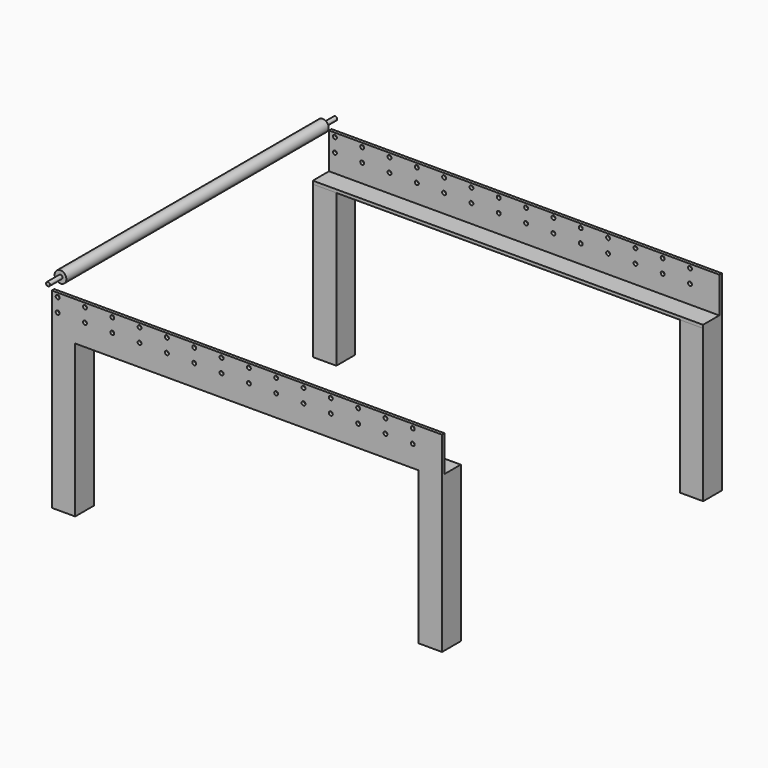
from build123d import *

# Parameters (mm, degrees)
F0_R      = 3.175
F1_DEPTH  = 292.1
F2_R      = 9.525
F3_DEPTH  = 266.7
F4_W      = 5.08
F4_H      = 58.42
F4_H_2    = 5.08
F4_W_2    = 33.02
F5_DEPTH  = 635
F7_DEPTH  = 576.581
F9_DEPTH  = 576.581
F10_W     = 38.1
F10_H     = 38.1
F11_DEPTH = 247.818


with BuildPart() as f1:
    # F0 (on Front) → F1 (new body, symmetric)
    with BuildSketch(Plane.XZ):
        Circle(F0_R)
    extrude(amount=F1_DEPTH, both=True)

    # F2 (on Front) → F3 (join, symmetric)
    with BuildSketch(Plane.XZ):
        Circle(F2_R)
    extrude(amount=F3_DEPTH, both=True)

    # F8 (on face) → F9 (cut, through all)
    with BuildSketch(Plane(origin=(0, 284.48, 0), x_dir=(-1, 0, 0), z_dir=(0, 1, 0))):
        with BuildLine():
            ThreePointArc((-584.2, -40.8131531549), (-587.375, -37.6381531549), (-590.55, -40.8131531549))
            Line((-590.55, -40.8131531549), (-584.2, -40.8131531549))
        make_face()
        with BuildLine():
            ThreePointArc((-6.35, -40.8131531549), (-9.525, -37.6381531549), (-12.7, -40.8131531549))
            Line((-12.7, -40.8131531549), (-6.35, -40.8131531549))
        make_face()
        with BuildLine():
            Line((-6.35, -40.8131531549), (-12.7, -40.8131531549))
            ThreePointArc((-12.7, -40.8131531549), (-9.525, -43.9881531549), (-6.35, -40.8131531549))
        make_face()
        with BuildLine():
            ThreePointArc((-50.8, -40.8131531549), (-53.975, -37.6381531549), (-57.15, -40.8131531549))
            Line((-57.15, -40.8131531549), (-50.8, -40.8131531549))
        make_face()
        with BuildLine():
            Line((-50.8, -40.8131531549), (-57.15, -40.8131531549))
            ThreePointArc((-57.15, -40.8131531549), (-53.975, -43.9881531549), (-50.8, -40.8131531549))
        make_face()
        with BuildLine():
            ThreePointArc((-95.25, -40.8131531549), (-98.425, -37.6381531549), (-101.6, -40.8131531549))
            Line((-101.6, -40.8131531549), (-95.25, -40.8131531549))
        make_face()
        with BuildLine():
            Line((-95.25, -40.8131531549), (-101.6, -40.8131531549))
            ThreePointArc((-101.6, -40.8131531549), (-98.425, -43.9881531549), (-95.25, -40.8131531549))
        make_face()
        with BuildLine():
            ThreePointArc((-139.7, -40.8131531549), (-142.875, -37.6381531549), (-146.05, -40.8131531549))
            Line((-146.05, -40.8131531549), (-139.7, -40.8131531549))
        make_face()
        with BuildLine():
            Line((-139.7, -40.8131531549), (-146.05, -40.8131531549))
            ThreePointArc((-146.05, -40.8131531549), (-142.875, -43.9881531549), (-139.7, -40.8131531549))
        make_face()
        with BuildLine():
            ThreePointArc((-184.15, -40.8131531549), (-187.325, -37.6381531549), (-190.5, -40.8131531549))
            Line((-190.5, -40.8131531549), (-184.15, -40.8131531549))
        make_face()
        with BuildLine():
            Line((-184.15, -40.8131531549), (-190.5, -40.8131531549))
            ThreePointArc((-190.5, -40.8131531549), (-187.325, -43.9881531549), (-184.15, -40.8131531549))
        make_face()
        with BuildLine():
            ThreePointArc((-228.6, -40.8131531549), (-231.775, -37.6381531549), (-234.95, -40.8131531549))
            Line((-234.95, -40.8131531549), (-228.6, -40.8131531549))
        make_face()
        with BuildLine():
            Line((-228.6, -40.8131531549), (-234.95, -40.8131531549))
            ThreePointArc((-234.95, -40.8131531549), (-231.775, -43.9881531549), (-228.6, -40.8131531549))
        make_face()
        with BuildLine():
            ThreePointArc((-273.05, -40.8131531549), (-276.225, -37.6381531549), (-279.4, -40.8131531549))
            Line((-279.4, -40.8131531549), (-273.05, -40.8131531549))
        make_face()
        with BuildLine():
            Line((-273.05, -40.8131531549), (-279.4, -40.8131531549))
            ThreePointArc((-279.4, -40.8131531549), (-276.225, -43.9881531549), (-273.05, -40.8131531549))
        make_face()
        with BuildLine():
            ThreePointArc((-317.5, -40.8131531549), (-320.675, -37.6381531549), (-323.85, -40.8131531549))
            Line((-323.85, -40.8131531549), (-317.5, -40.8131531549))
        make_face()
        with BuildLine():
            Line((-317.5, -40.8131531549), (-323.85, -40.8131531549))
            ThreePointArc((-323.85, -40.8131531549), (-320.675, -43.9881531549), (-317.5, -40.8131531549))
        make_face()
        with BuildLine():
            ThreePointArc((-361.95, -40.8131531549), (-365.125, -37.6381531549), (-368.3, -40.8131531549))
            Line((-368.3, -40.8131531549), (-361.95, -40.8131531549))
        make_face()
        with BuildLine():
            Line((-361.95, -40.8131531549), (-368.3, -40.8131531549))
            ThreePointArc((-368.3, -40.8131531549), (-365.125, -43.9881531549), (-361.95, -40.8131531549))
        make_face()
        with BuildLine():
            ThreePointArc((-406.4, -40.8131531549), (-409.575, -37.6381531549), (-412.75, -40.8131531549))
            Line((-412.75, -40.8131531549), (-406.4, -40.8131531549))
        make_face()
        with BuildLine():
            Line((-406.4, -40.8131531549), (-412.75, -40.8131531549))
            ThreePointArc((-412.75, -40.8131531549), (-409.575, -43.9881531549), (-406.4, -40.8131531549))
        make_face()
        with BuildLine():
            ThreePointArc((-450.85, -40.8131531549), (-454.025, -37.6381531549), (-457.2, -40.8131531549))
            Line((-457.2, -40.8131531549), (-450.85, -40.8131531549))
        make_face()
        with BuildLine():
            Line((-450.85, -40.8131531549), (-457.2, -40.8131531549))
            ThreePointArc((-457.2, -40.8131531549), (-454.025, -43.9881531549), (-450.85, -40.8131531549))
        make_face()
        with BuildLine():
            ThreePointArc((-495.3, -40.8131531549), (-498.475, -37.6381531549), (-501.65, -40.8131531549))
            Line((-501.65, -40.8131531549), (-495.3, -40.8131531549))
        make_face()
        with BuildLine():
            Line((-495.3, -40.8131531549), (-501.65, -40.8131531549))
            ThreePointArc((-501.65, -40.8131531549), (-498.475, -43.9881531549), (-495.3, -40.8131531549))
        make_face()
        with BuildLine():
            ThreePointArc((-539.75, -40.8131531549), (-542.925, -37.6381531549), (-546.1, -40.8131531549))
            Line((-546.1, -40.8131531549), (-539.75, -40.8131531549))
        make_face()
        with BuildLine():
            Line((-539.75, -40.8131531549), (-546.1, -40.8131531549))
            ThreePointArc((-546.1, -40.8131531549), (-542.925, -43.9881531549), (-539.75, -40.8131531549))
        make_face()
        with BuildLine():
            Line((-584.2, -40.8131531549), (-590.55, -40.8131531549))
            ThreePointArc((-590.55, -40.8131531549), (-587.375, -43.9881531549), (-584.2, -40.8131531549))
        make_face()
        with BuildLine():
            ThreePointArc((-584.2, -18.5881531549), (-587.375, -15.4131531549), (-590.55, -18.5881531549))
            Line((-590.55, -18.5881531549), (-584.2, -18.5881531549))
        make_face()
        with BuildLine():
            ThreePointArc((-6.35, -18.5881531549), (-9.525, -15.4131531549), (-12.7, -18.5881531549))
            Line((-12.7, -18.5881531549), (-6.35, -18.5881531549))
        make_face()
        with BuildLine():
            Line((-6.35, -18.5881531549), (-12.7, -18.5881531549))
            ThreePointArc((-12.7, -18.5881531549), (-9.525, -21.7631531549), (-6.35, -18.5881531549))
        make_face()
        with BuildLine():
            ThreePointArc((-50.8, -18.5881531549), (-53.975, -15.4131531549), (-57.15, -18.5881531549))
            Line((-57.15, -18.5881531549), (-50.8, -18.5881531549))
        make_face()
        with BuildLine():
            Line((-50.8, -18.5881531549), (-57.15, -18.5881531549))
            ThreePointArc((-57.15, -18.5881531549), (-53.975, -21.7631531549), (-50.8, -18.5881531549))
        make_face()
        with BuildLine():
            ThreePointArc((-95.25, -18.5881531549), (-98.425, -15.4131531549), (-101.6, -18.5881531549))
            Line((-101.6, -18.5881531549), (-95.25, -18.5881531549))
        make_face()
        with BuildLine():
            Line((-95.25, -18.5881531549), (-101.6, -18.5881531549))
            ThreePointArc((-101.6, -18.5881531549), (-98.425, -21.7631531549), (-95.25, -18.5881531549))
        make_face()
        with BuildLine():
            ThreePointArc((-139.7, -18.5881531549), (-142.875, -15.4131531549), (-146.05, -18.5881531549))
            Line((-146.05, -18.5881531549), (-139.7, -18.5881531549))
        make_face()
        with BuildLine():
            Line((-139.7, -18.5881531549), (-146.05, -18.5881531549))
            ThreePointArc((-146.05, -18.5881531549), (-142.875, -21.7631531549), (-139.7, -18.5881531549))
        make_face()
        with BuildLine():
            ThreePointArc((-184.15, -18.5881531549), (-187.325, -15.4131531549), (-190.5, -18.5881531549))
            Line((-190.5, -18.5881531549), (-184.15, -18.5881531549))
        make_face()
        with BuildLine():
            Line((-184.15, -18.5881531549), (-190.5, -18.5881531549))
            ThreePointArc((-190.5, -18.5881531549), (-187.325, -21.7631531549), (-184.15, -18.5881531549))
        make_face()
        with BuildLine():
            ThreePointArc((-228.6, -18.5881531549), (-231.775, -15.4131531549), (-234.95, -18.5881531549))
            Line((-234.95, -18.5881531549), (-228.6, -18.5881531549))
        make_face()
        with BuildLine():
            Line((-228.6, -18.5881531549), (-234.95, -18.5881531549))
            ThreePointArc((-234.95, -18.5881531549), (-231.775, -21.7631531549), (-228.6, -18.5881531549))
        make_face()
        with BuildLine():
            ThreePointArc((-273.05, -18.5881531549), (-276.225, -15.4131531549), (-279.4, -18.5881531549))
            Line((-279.4, -18.5881531549), (-273.05, -18.5881531549))
        make_face()
        with BuildLine():
            Line((-273.05, -18.5881531549), (-279.4, -18.5881531549))
            ThreePointArc((-279.4, -18.5881531549), (-276.225, -21.7631531549), (-273.05, -18.5881531549))
        make_face()
        with BuildLine():
            ThreePointArc((-317.5, -18.5881531549), (-320.675, -15.4131531549), (-323.85, -18.5881531549))
            Line((-323.85, -18.5881531549), (-317.5, -18.5881531549))
        make_face()
        with BuildLine():
            Line((-317.5, -18.5881531549), (-323.85, -18.5881531549))
            ThreePointArc((-323.85, -18.5881531549), (-320.675, -21.7631531549), (-317.5, -18.5881531549))
        make_face()
        with BuildLine():
            ThreePointArc((-361.95, -18.5881531549), (-365.125, -15.4131531549), (-368.3, -18.5881531549))
            Line((-368.3, -18.5881531549), (-361.95, -18.5881531549))
        make_face()
        with BuildLine():
            Line((-361.95, -18.5881531549), (-368.3, -18.5881531549))
            ThreePointArc((-368.3, -18.5881531549), (-365.125, -21.7631531549), (-361.95, -18.5881531549))
        make_face()
        with BuildLine():
            ThreePointArc((-406.4, -18.5881531549), (-409.575, -15.4131531549), (-412.75, -18.5881531549))
            Line((-412.75, -18.5881531549), (-406.4, -18.5881531549))
        make_face()
        with BuildLine():
            Line((-406.4, -18.5881531549), (-412.75, -18.5881531549))
            ThreePointArc((-412.75, -18.5881531549), (-409.575, -21.7631531549), (-406.4, -18.5881531549))
        make_face()
        with BuildLine():
            ThreePointArc((-450.85, -18.5881531549), (-454.025, -15.4131531549), (-457.2, -18.5881531549))
            Line((-457.2, -18.5881531549), (-450.85, -18.5881531549))
        make_face()
        with BuildLine():
            Line((-450.85, -18.5881531549), (-457.2, -18.5881531549))
            ThreePointArc((-457.2, -18.5881531549), (-454.025, -21.7631531549), (-450.85, -18.5881531549))
        make_face()
        with BuildLine():
            ThreePointArc((-495.3, -18.5881531549), (-498.475, -15.4131531549), (-501.65, -18.5881531549))
            Line((-501.65, -18.5881531549), (-495.3, -18.5881531549))
        make_face()
        with BuildLine():
            Line((-495.3, -18.5881531549), (-501.65, -18.5881531549))
            ThreePointArc((-501.65, -18.5881531549), (-498.475, -21.7631531549), (-495.3, -18.5881531549))
        make_face()
        with BuildLine():
            ThreePointArc((-539.75, -18.5881531549), (-542.925, -15.4131531549), (-546.1, -18.5881531549))
            Line((-546.1, -18.5881531549), (-539.75, -18.5881531549))
        make_face()
        with BuildLine():
            Line((-539.75, -18.5881531549), (-546.1, -18.5881531549))
            ThreePointArc((-546.1, -18.5881531549), (-542.925, -21.7631531549), (-539.75, -18.5881531549))
        make_face()
        with BuildLine():
            Line((-584.2, -18.5881531549), (-590.55, -18.5881531549))
            ThreePointArc((-590.55, -18.5881531549), (-587.375, -21.7631531549), (-584.2, -18.5881531549))
        make_face()
    extrude(amount=-F9_DEPTH, mode=Mode.SUBTRACT)


with BuildPart() as f5:
    # F4 (on Right) → F5 (new body)
    with BuildSketch(Plane.YZ):
        with Locations((-281.94, -41.4481531549)):
            Rectangle(F4_W, F4_H)
        with Locations((-281.94, -73.1981531549)):
            Rectangle(F4_W, F4_H_2)
        with Locations((-262.89, -73.1981531549)):
            Rectangle(F4_W_2, F4_H_2)
    extrude(amount=F5_DEPTH)


with BuildPart() as f5b:
    # F4 (on Right) → F5, piece 2 (new body)
    with BuildSketch(Plane.YZ):
        with Locations((281.94, -41.4481531549)):
            Rectangle(F4_W, F4_H)
        with Locations((281.94, -73.1981531549)):
            Rectangle(F4_W, F4_H_2)
        with Locations((262.89, -73.1981531549)):
            Rectangle(F4_W_2, F4_H_2)
    extrude(amount=F5_DEPTH)


with BuildPart() as f7_tool:
    # F6 (on face) → F7 (new body, through all)
    with BuildSketch(Plane.XZ.offset(284.48)):
        with BuildLine():
            ThreePointArc((12.7, -40.8131531549), (9.525, -37.6381531549), (6.35, -40.8131531549))
            Line((6.35, -40.8131531549), (12.7, -40.8131531549))
        make_face()
        with BuildLine():
            Line((12.7, -40.8131531549), (6.35, -40.8131531549))
            ThreePointArc((6.35, -40.8131531549), (9.525, -43.9881531549), (12.7, -40.8131531549))
        make_face()
        with BuildLine():
            ThreePointArc((57.15, -40.8131531549), (53.975, -37.6381531549), (50.8, -40.8131531549))
            Line((50.8, -40.8131531549), (57.15, -40.8131531549))
        make_face()
        with BuildLine():
            ThreePointArc((101.6, -40.8131531549), (98.425, -37.6381531549), (95.25, -40.8131531549))
            Line((95.25, -40.8131531549), (101.6, -40.8131531549))
        make_face()
        with BuildLine():
            Line((101.6, -40.8131531549), (95.25, -40.8131531549))
            ThreePointArc((95.25, -40.8131531549), (98.425, -43.9881531549), (101.6, -40.8131531549))
        make_face()
        with BuildLine():
            Line((57.15, -40.8131531549), (50.8, -40.8131531549))
            ThreePointArc((50.8, -40.8131531549), (53.975, -43.9881531549), (57.15, -40.8131531549))
        make_face()
        with BuildLine():
            Line((146.05, -40.8131531549), (139.7, -40.8131531549))
            ThreePointArc((139.7, -40.8131531549), (142.875, -43.9881531549), (146.05, -40.8131531549))
        make_face()
        with BuildLine():
            ThreePointArc((146.05, -40.8131531549), (142.875, -37.6381531549), (139.7, -40.8131531549))
            Line((139.7, -40.8131531549), (146.05, -40.8131531549))
        make_face()
        with BuildLine():
            ThreePointArc((190.5, -40.8131531549), (187.325, -37.6381531549), (184.15, -40.8131531549))
            Line((184.15, -40.8131531549), (190.5, -40.8131531549))
        make_face()
        with BuildLine():
            Line((190.5, -40.8131531549), (184.15, -40.8131531549))
            ThreePointArc((184.15, -40.8131531549), (187.325, -43.9881531549), (190.5, -40.8131531549))
        make_face()
        with BuildLine():
            ThreePointArc((234.95, -40.8131531549), (231.775, -37.6381531549), (228.6, -40.8131531549))
            Line((228.6, -40.8131531549), (234.95, -40.8131531549))
        make_face()
        with BuildLine():
            Line((234.95, -40.8131531549), (228.6, -40.8131531549))
            ThreePointArc((228.6, -40.8131531549), (231.775, -43.9881531549), (234.95, -40.8131531549))
        make_face()
        with BuildLine():
            ThreePointArc((273.05, -40.8131531549), (276.225, -43.9881531549), (279.4, -40.8131531549))
            Line((279.4, -40.8131531549), (273.05, -40.8131531549))
        make_face()
        with BuildLine():
            Line((273.05, -40.8131531549), (279.4, -40.8131531549))
            ThreePointArc((279.4, -40.8131531549), (276.225, -37.6381531549), (273.05, -40.8131531549))
        make_face()
        with BuildLine():
            ThreePointArc((317.5, -40.8131531549), (320.675, -43.9881531549), (323.85, -40.8131531549))
            Line((323.85, -40.8131531549), (317.5, -40.8131531549))
        make_face()
        with BuildLine():
            Line((317.5, -40.8131531549), (323.85, -40.8131531549))
            ThreePointArc((323.85, -40.8131531549), (320.675, -37.6381531549), (317.5, -40.8131531549))
        make_face()
        with BuildLine():
            ThreePointArc((12.7, -18.5881531549), (9.525, -15.4131531549), (6.35, -18.5881531549))
            Line((6.35, -18.5881531549), (12.7, -18.5881531549))
        make_face()
        with BuildLine():
            Line((12.7, -18.5881531549), (6.35, -18.5881531549))
            ThreePointArc((6.35, -18.5881531549), (9.525, -21.7631531549), (12.7, -18.5881531549))
        make_face()
        with BuildLine():
            ThreePointArc((57.15, -18.5881531549), (53.975, -15.4131531549), (50.8, -18.5881531549))
            Line((50.8, -18.5881531549), (57.15, -18.5881531549))
        make_face()
        with BuildLine():
            Line((57.15, -18.5881531549), (50.8, -18.5881531549))
            ThreePointArc((50.8, -18.5881531549), (53.975, -21.7631531549), (57.15, -18.5881531549))
        make_face()
        with BuildLine():
            Line((101.6, -18.5881531549), (95.25, -18.5881531549))
            ThreePointArc((95.25, -18.5881531549), (98.425, -21.7631531549), (101.6, -18.5881531549))
        make_face()
        with BuildLine():
            ThreePointArc((101.6, -18.5881531549), (98.425, -15.4131531549), (95.25, -18.5881531549))
            Line((95.25, -18.5881531549), (101.6, -18.5881531549))
        make_face()
        with BuildLine():
            Line((146.05, -18.5881531549), (139.7, -18.5881531549))
            ThreePointArc((139.7, -18.5881531549), (142.875, -21.7631531549), (146.05, -18.5881531549))
        make_face()
        with BuildLine():
            ThreePointArc((146.05, -18.5881531549), (142.875, -15.4131531549), (139.7, -18.5881531549))
            Line((139.7, -18.5881531549), (146.05, -18.5881531549))
        make_face()
        with BuildLine():
            Line((190.5, -18.5881531549), (184.15, -18.5881531549))
            ThreePointArc((184.15, -18.5881531549), (187.325, -21.7631531549), (190.5, -18.5881531549))
        make_face()
        with BuildLine():
            ThreePointArc((190.5, -18.5881531549), (187.325, -15.4131531549), (184.15, -18.5881531549))
            Line((184.15, -18.5881531549), (190.5, -18.5881531549))
        make_face()
        with BuildLine():
            Line((234.95, -18.5881531549), (228.6, -18.5881531549))
            ThreePointArc((228.6, -18.5881531549), (231.775, -21.7631531549), (234.95, -18.5881531549))
        make_face()
        with BuildLine():
            ThreePointArc((234.95, -18.5881531549), (231.775, -15.4131531549), (228.6, -18.5881531549))
            Line((228.6, -18.5881531549), (234.95, -18.5881531549))
        make_face()
        with BuildLine():
            Line((279.4, -18.5881531549), (273.05, -18.5881531549))
            ThreePointArc((273.05, -18.5881531549), (276.225, -21.7631531549), (279.4, -18.5881531549))
        make_face()
        with BuildLine():
            ThreePointArc((279.4, -18.5881531549), (276.225, -15.4131531549), (273.05, -18.5881531549))
            Line((273.05, -18.5881531549), (279.4, -18.5881531549))
        make_face()
        with BuildLine():
            ThreePointArc((317.5, -18.5881531549), (320.675, -21.7631531549), (323.85, -18.5881531549))
            Line((323.85, -18.5881531549), (317.5, -18.5881531549))
        make_face()
        with BuildLine():
            Line((317.5, -18.5881531549), (323.85, -18.5881531549))
            ThreePointArc((323.85, -18.5881531549), (320.675, -15.4131531549), (317.5, -18.5881531549))
        make_face()
        with BuildLine():
            ThreePointArc((361.95, -40.8131531549), (365.125, -43.9881531549), (368.3, -40.8131531549))
            Line((368.3, -40.8131531549), (361.95, -40.8131531549))
        make_face()
        with BuildLine():
            Line((361.95, -40.8131531549), (368.3, -40.8131531549))
            ThreePointArc((368.3, -40.8131531549), (365.125, -37.6381531549), (361.95, -40.8131531549))
        make_face()
        with BuildLine():
            Line((361.95, -18.5881531549), (368.3, -18.5881531549))
            ThreePointArc((368.3, -18.5881531549), (365.125, -15.4131531549), (361.95, -18.5881531549))
        make_face()
        with BuildLine():
            ThreePointArc((361.95, -18.5881531549), (365.125, -21.7631531549), (368.3, -18.5881531549))
            Line((368.3, -18.5881531549), (361.95, -18.5881531549))
        make_face()
        with BuildLine():
            Line((406.4, -18.5881531549), (412.75, -18.5881531549))
            ThreePointArc((412.75, -18.5881531549), (409.575, -15.4131531549), (406.4, -18.5881531549))
        make_face()
        with BuildLine():
            ThreePointArc((406.4, -18.5881531549), (409.575, -21.7631531549), (412.75, -18.5881531549))
            Line((412.75, -18.5881531549), (406.4, -18.5881531549))
        make_face()
        with BuildLine():
            ThreePointArc((450.85, -18.5881531549), (454.025, -21.7631531549), (457.2, -18.5881531549))
            Line((457.2, -18.5881531549), (450.85, -18.5881531549))
        make_face()
        with BuildLine():
            Line((450.85, -18.5881531549), (457.2, -18.5881531549))
            ThreePointArc((457.2, -18.5881531549), (454.025, -15.4131531549), (450.85, -18.5881531549))
        make_face()
        with BuildLine():
            ThreePointArc((495.3, -18.5881531549), (498.475, -21.7631531549), (501.65, -18.5881531549))
            Line((501.65, -18.5881531549), (495.3, -18.5881531549))
        make_face()
        with BuildLine():
            Line((495.3, -18.5881531549), (501.65, -18.5881531549))
            ThreePointArc((501.65, -18.5881531549), (498.475, -15.4131531549), (495.3, -18.5881531549))
        make_face()
        with BuildLine():
            ThreePointArc((539.75, -18.5881531549), (542.925, -21.7631531549), (546.1, -18.5881531549))
            Line((546.1, -18.5881531549), (539.75, -18.5881531549))
        make_face()
        with BuildLine():
            Line((539.75, -18.5881531549), (546.1, -18.5881531549))
            ThreePointArc((546.1, -18.5881531549), (542.925, -15.4131531549), (539.75, -18.5881531549))
        make_face()
        with BuildLine():
            ThreePointArc((584.2, -18.5881531549), (587.375, -21.7631531549), (590.55, -18.5881531549))
            Line((590.55, -18.5881531549), (584.2, -18.5881531549))
        make_face()
        with BuildLine():
            Line((584.2, -18.5881531549), (590.55, -18.5881531549))
            ThreePointArc((590.55, -18.5881531549), (587.375, -15.4131531549), (584.2, -18.5881531549))
        make_face()
        with BuildLine():
            Line((406.4, -40.8131531549), (412.75, -40.8131531549))
            ThreePointArc((412.75, -40.8131531549), (409.575, -37.6381531549), (406.4, -40.8131531549))
        make_face()
        with BuildLine():
            ThreePointArc((406.4, -40.8131531549), (409.575, -43.9881531549), (412.75, -40.8131531549))
            Line((412.75, -40.8131531549), (406.4, -40.8131531549))
        make_face()
        with BuildLine():
            Line((450.85, -40.8131531549), (457.2, -40.8131531549))
            ThreePointArc((457.2, -40.8131531549), (454.025, -37.6381531549), (450.85, -40.8131531549))
        make_face()
        with BuildLine():
            ThreePointArc((450.85, -40.8131531549), (454.025, -43.9881531549), (457.2, -40.8131531549))
            Line((457.2, -40.8131531549), (450.85, -40.8131531549))
        make_face()
        with BuildLine():
            Line((495.3, -40.8131531549), (501.65, -40.8131531549))
            ThreePointArc((501.65, -40.8131531549), (498.475, -37.6381531549), (495.3, -40.8131531549))
        make_face()
        with BuildLine():
            ThreePointArc((495.3, -40.8131531549), (498.475, -43.9881531549), (501.65, -40.8131531549))
            Line((501.65, -40.8131531549), (495.3, -40.8131531549))
        make_face()
        with BuildLine():
            Line((539.75, -40.8131531549), (546.1, -40.8131531549))
            ThreePointArc((546.1, -40.8131531549), (542.925, -37.6381531549), (539.75, -40.8131531549))
        make_face()
        with BuildLine():
            ThreePointArc((539.75, -40.8131531549), (542.925, -43.9881531549), (546.1, -40.8131531549))
            Line((546.1, -40.8131531549), (539.75, -40.8131531549))
        make_face()
        with BuildLine():
            Line((584.2, -40.8131531549), (590.55, -40.8131531549))
            ThreePointArc((590.55, -40.8131531549), (587.375, -37.6381531549), (584.2, -40.8131531549))
        make_face()
        with BuildLine():
            ThreePointArc((584.2, -40.8131531549), (587.375, -43.9881531549), (590.55, -40.8131531549))
            Line((590.55, -40.8131531549), (584.2, -40.8131531549))
        make_face()
    extrude(amount=-F7_DEPTH)


with BuildPart() as f5_1:
    add(f5.part)

    # F7: cut by f7_tool
    add(f7_tool.part, mode=Mode.SUBTRACT)

    # F10 (on face) → F11, piece 2 (join)
    with BuildSketch(Plane(origin=(0, 0, -75.7381531549), x_dir=(1, 0, 0), z_dir=(0, 0, -1))):
        with Locations((19.05, 265.43)):
            Rectangle(F10_W, F10_H)
        with Locations((615.95, 265.43)):
            Rectangle(F10_W, F10_H)
    extrude(amount=F11_DEPTH)


with BuildPart() as f5b_1:
    add(f5b.part)

    # F7: cut by f7_tool
    add(f7_tool.part, mode=Mode.SUBTRACT)

    # F10 (on face) → F11 (join)
    with BuildSketch(Plane(origin=(0, 0, -75.7381531549), x_dir=(1, 0, 0), z_dir=(0, 0, -1))):
        with Locations((19.05, -265.7275220871)):
            Rectangle(F10_W, F10_H)
        with Locations((615.95, -265.7275220871)):
            Rectangle(F10_W, F10_H)
    extrude(amount=F11_DEPTH)


solid = Compound([f1.part, f5_1.part, f5b_1.part])
